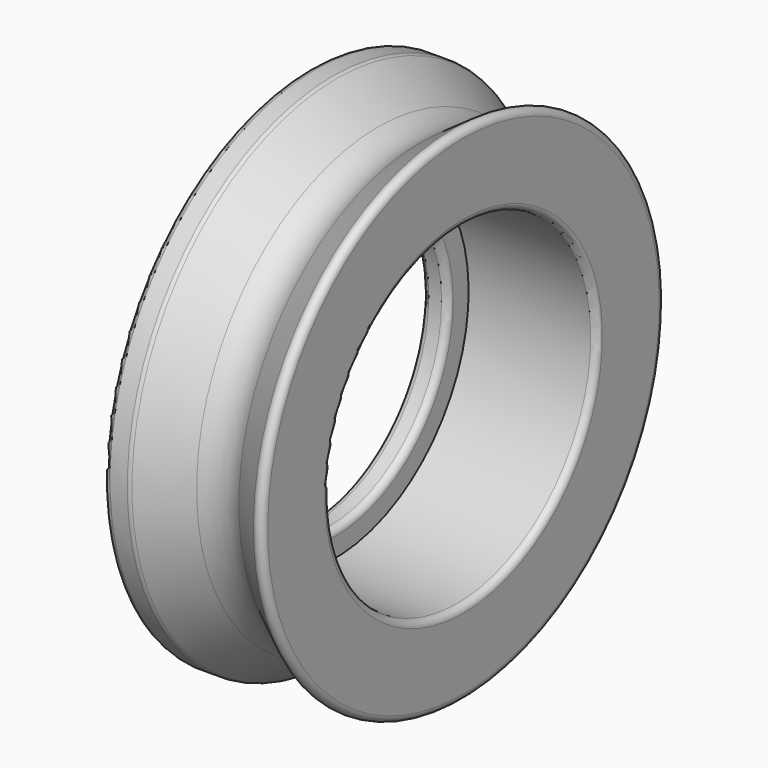
from build123d import *


with BuildPart() as f1:
    # F0 (on Front) → F1 (revolve)
    with BuildSketch(Plane.XZ):
        with BuildLine():
            Line((-2.5, 5.75), (-2.5, 6.5))
            Line((-2.5, 6.5), (2.25, 6.5))
            ThreePointArc((2.25, 6.5), (2.426777, 6.573223), (2.5, 6.75))
            Line((2.5, 6.75), (2.5, 9.519836))
            ThreePointArc((2.5, 9.519836), (2.365453, 9.741581), (2.106634, 9.724644))
            Line((2.106634, 9.724644), (0.822148, 8.825503))
            ThreePointArc((0.822148, 8.825503), (0, 8.566344), (-0.822148, 8.825503))
            Line((-0.822148, 8.825503), (-2.43544, 9.954808))
            ThreePointArc((-2.43544, 9.954808), (-2.503646, 9.988434), (-2.578806, 10))
            Line((-2.578806, 10), (-3.25, 10))
            ThreePointArc((-3.25, 10), (-3.426777, 9.926777), (-3.5, 9.75))
            Line((-3.5, 9.75), (-3.5, 5.75))
            ThreePointArc((-3.5, 5.75), (-3.426777, 5.573223), (-3.25, 5.5))
            Line((-3.25, 5.5), (-2.75, 5.5))
            ThreePointArc((-2.75, 5.5), (-2.573223, 5.573223), (-2.5, 5.75))
        make_face()
    revolve(axis=Axis((0, 0, 0), (-1, 0, 0)))


solid = f1.part
